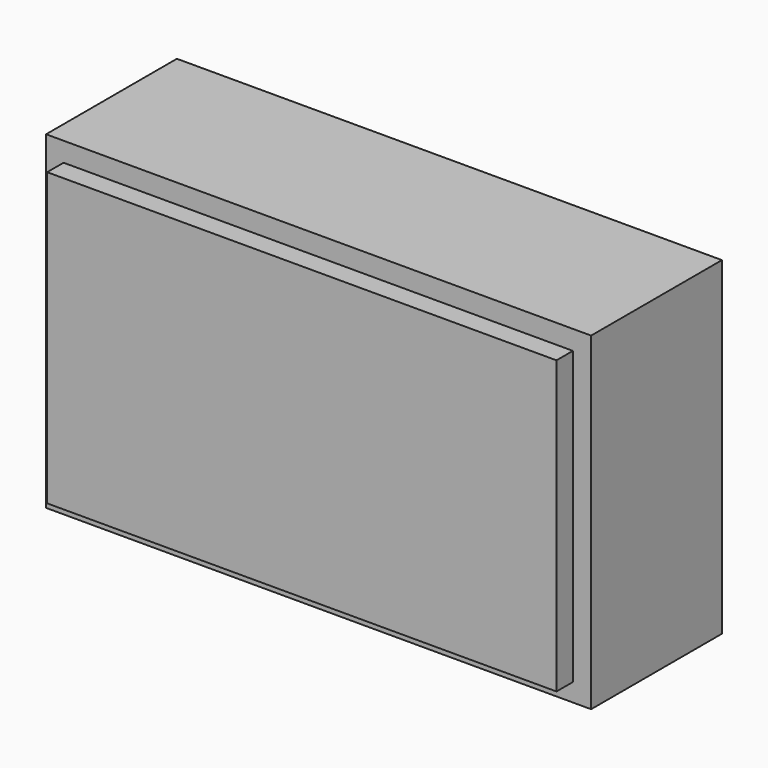
from build123d import *

# Parameters (mm, degrees)
F0_W     = 127.008882
F0_H     = 76.652937
F1_DEPTH = 38.1
F2_T     = -2.54
F3_W     = 118.68491
F3_H     = 67.936881
F4_DEPTH = 4.7752


with BuildPart() as f1:
    # F0 (on Front) → F1 (new body)
    with BuildSketch(Plane.XZ):
        with Locations((3.217185, 6.294493)):
            Rectangle(F0_W, F0_H)
    extrude(amount=F1_DEPTH)

    # F2
    f2_openings = [f1.faces().sort_by_distance(p)[0] for p in [
        (3.217185, 0, 6.294493),
    ]]
    offset(amount=F2_T, openings=f2_openings)

    # F3 (on face) → F4 (join)
    with BuildSketch(Plane.XZ.offset(38.1)):
        with Locations((3.130339, 6.138873)):
            Rectangle(F3_W, F3_H)
    extrude(amount=F4_DEPTH)


solid = f1.part
